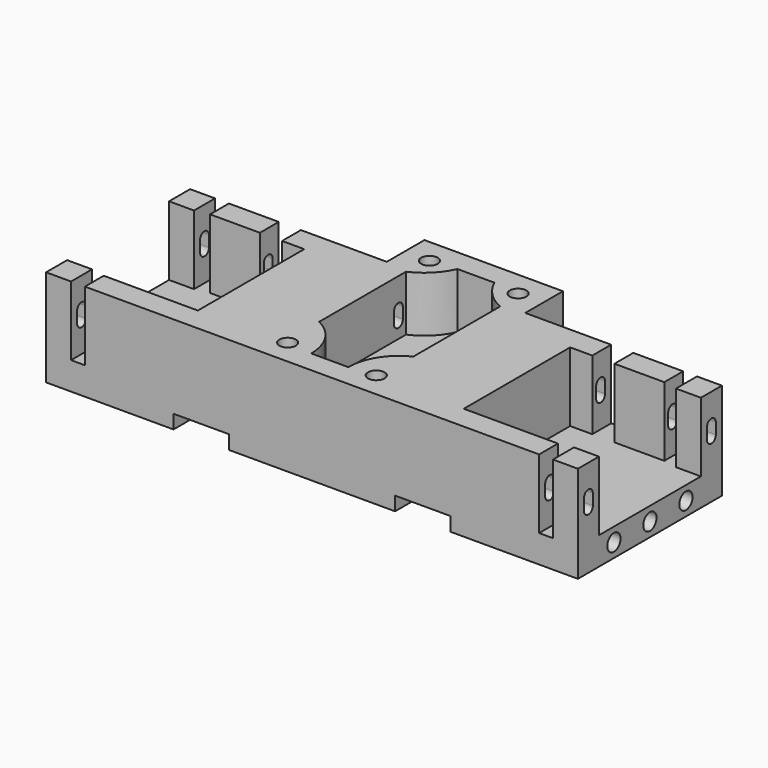
from build123d import *

# Parameters (mm, degrees)
PAD_DEPTH       = 17.5
POCKET_DEPTH    = 12.5
POCKET001_DEPTH = 10
SKETCH003_R     = 1.5
POCKET002_DEPTH = 10
SKETCH004_W     = 10
SKETCH004_H     = 2.5
POCKET003_DEPTH = 41.001
SKETCH010_W     = 4
SKETCH010_H     = 4.25
POCKET008_DEPTH = 12.5
SKETCH011_R     = 1.5
POCKET009_DEPTH = 96.001


with BuildPart() as part:
    # Sketch → Pad (new body)
    with BuildSketch(Plane.XY):
        Polygon((-48, 0), (48, 0), (48, 32.5), (12.5, 32.5), (12.5, 41), (-12.5, 41), (-12.5, 32.5), (-48, 32.5), align=None)
    extrude(amount=PAD_DEPTH)

    # Sketch001 (on Face10 of Pad) → Pocket (cut)
    with BuildSketch(Plane.XY.offset(17.5)):
        Polygon((-48, 27.75), (-43.5, 27.75), (-43.5, 32.5), (-41, 32.5), (-41, 28.25), (-24, 28.25), (-24, 4.25), (-41, 4.25), (-41, 0), (-43.5, 0), (-43.5, 4.75), (-48, 4.75), align=None)
        Polygon((24, 28.25), (41, 28.25), (41, 32.5), (43.5, 32.5), (43.5, 27.75), (48, 27.75), (48, 4.75), (43.5, 4.75), (43.5, 0), (41, 0), (41, 4.25), (24, 4.25), align=None)
    extrude(amount=-POCKET_DEPTH, mode=Mode.SUBTRACT)

    # Sketch002 (on Face8 of Pocket) → Pocket001 (cut)
    with BuildSketch(Plane.XY.offset(17.5)):
        with BuildLine():
            ThreePointArc((-8.5, 31.834849), (-5.428932, 33.928932), (-3.334849, 37))
            Line((-3.334849, 37), (3.334849, 37))
            ThreePointArc((3.334849, 37), (5.428932, 33.928932), (8.5, 31.834849))
            Line((8.5, 31.834849), (8.5, 12.246211))
            ThreePointArc((8.5, 12.246211), (4.732742, 8.865151), (3.334849, 4))
            Line((-3.334849, 4), (3.334849, 4))
            ThreePointArc((-3.334849, 4), (-4.732742, 8.865151), (-8.5, 12.246211))
            Line((-8.5, 31.834849), (-8.5, 12.246211))
        make_face()
    extrude(amount=-POCKET001_DEPTH, mode=Mode.SUBTRACT)

    # Sketch003 (on Face8 of Pocket001) → Pocket002 (cut)
    with BuildSketch(Plane.XY.offset(17.5)):
        with Locations((-8, 36.5)):
            Circle(SKETCH003_R)
        with Locations((8, 36.5)):
            Circle(SKETCH003_R)
        with Locations((-8, 4.5)):
            Circle(SKETCH003_R)
        with Locations((8, 4.5)):
            Circle(SKETCH003_R)
    extrude(amount=-POCKET002_DEPTH, mode=Mode.SUBTRACT)

    # Sketch004 (on Face1 of Pocket002) → Pocket003 (cut, through all)
    with BuildSketch(Plane.XZ):
        with Locations((-20, 1.25)):
            Rectangle(SKETCH004_W, SKETCH004_H)
        with Locations((20, 1.25)):
            Rectangle(SKETCH004_W, SKETCH004_H)
    extrude(amount=-POCKET003_DEPTH, mode=Mode.SUBTRACT)

    # Sketch010 → Pocket008 (cut)
    with BuildSketch(Plane.XY.offset(17.5)):
        with Locations((-30, 30.375)):
            Rectangle(SKETCH010_W, SKETCH010_H)
        with Locations((30, 30.375)):
            Rectangle(SKETCH010_W, SKETCH010_H)
    extrude(amount=-POCKET008_DEPTH, mode=Mode.SUBTRACT)

    # Sketch011 (on Face11 of Pocket008) → Pocket009 (cut, through all)
    with BuildSketch(Plane.YZ.offset(48)):
        with Locations((8.125, 2.5)):
            Circle(SKETCH011_R)
        with Locations((16.25, 2.5)):
            Circle(SKETCH011_R)
        with Locations((24.375, 2.5)):
            Circle(SKETCH011_R)
        with BuildLine():
            ThreePointArc((31.125, 12.25), (30.125, 13.25), (29.125, 12.25))
            Line((29.125, 12.25), (29.125, 10.25))
            ThreePointArc((29.125, 10.25), (30.125, 9.25), (31.125, 10.25))
            Line((31.125, 10.25), (31.125, 12.25))
        make_face()
        with BuildLine():
            ThreePointArc((3.375, 12.25), (2.375, 13.25), (1.375, 12.25))
            Line((1.375, 12.25), (1.375, 10.25))
            ThreePointArc((1.375, 10.25), (2.375, 9.25), (3.375, 10.25))
            Line((3.375, 10.25), (3.375, 12.25))
        make_face()
    extrude(amount=-POCKET009_DEPTH, mode=Mode.SUBTRACT)


solid = part.part
